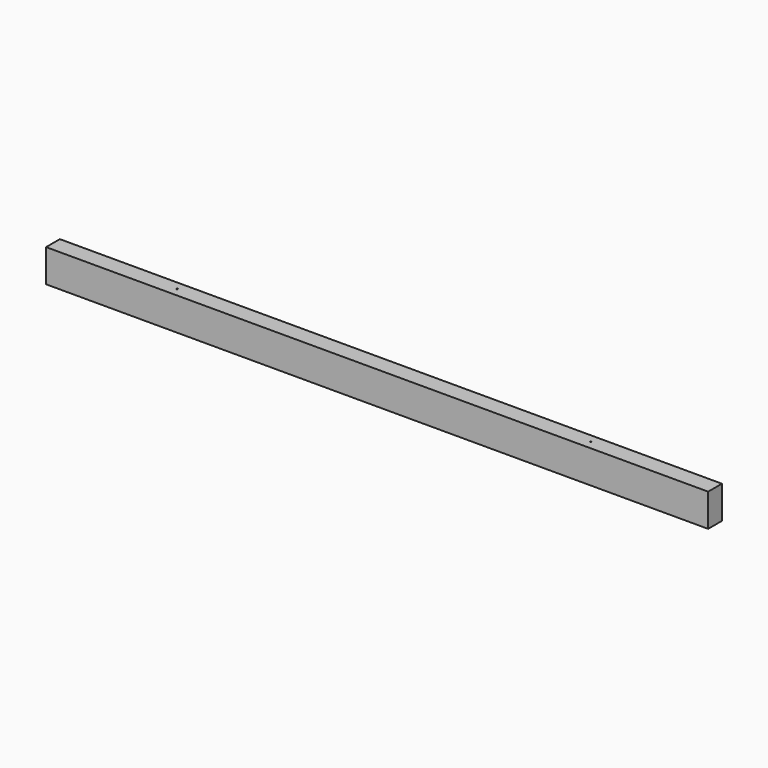
from build123d import *

# Parameters (mm, degrees)
F0_W     = 609.6
F0_H     = 15.875
F1_DEPTH = 30.1625
F3_D     = 1.190625
F3_DEPTH = 19.05
F3_TIP   = 0.3576998373
F5_D     = 1.190625
F5_DEPTH = 19.05
F5_TIP   = 0.3576998373


with BuildPart() as f1:
    # F0 (on Top) → F1 (new body)
    with BuildSketch(Plane.XY):
        Rectangle(F0_W, F0_H)
    extrude(amount=F1_DEPTH)

    # F3
    with Locations(Plane(origin=(0, 0, 0), x_dir=(1, 0, 0), z_dir=(0, 0, -1))):
        with Locations((229.108, 0), (-229.108, 0)):
            Hole(F3_D / 2, depth=F3_DEPTH)
            with Locations((0, 0, -(F3_DEPTH + F3_TIP / 2))):  # 118° drill point
                Cone(0, F3_D / 2, F3_TIP, mode=Mode.SUBTRACT)

    # F5
    with Locations(Plane.XY.offset(30.1625)):
        with Locations((190.5, 0), (-190.5, 0)):
            Hole(F5_D / 2, depth=F5_DEPTH)
            with Locations((0, 0, -(F5_DEPTH + F5_TIP / 2))):  # 118° drill point
                Cone(0, F5_D / 2, F5_TIP, mode=Mode.SUBTRACT)


solid = f1.part
